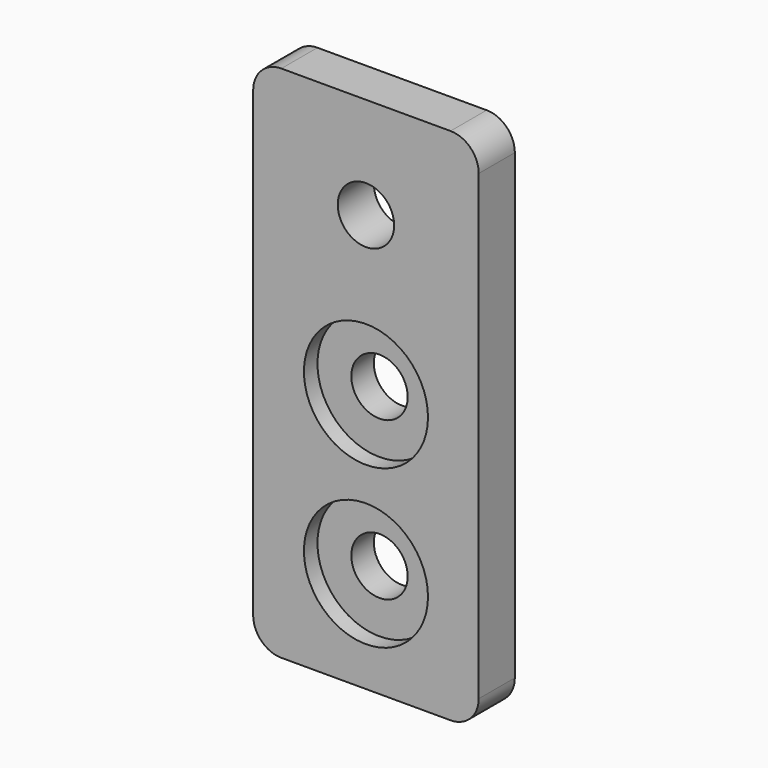
from build123d import *

# Parameters (mm, degrees)
F0_W     = 20
F0_H     = 46
F1_DEPTH = 4
F2_D     = 5
F3_R     = 5.5
F4_DEPTH = 1.5
F5_R     = 2.5


with BuildPart() as f1:
    # F0 (on Front) → F1 (new body)
    with BuildSketch(Plane.XZ):
        Rectangle(F0_W, F0_H)
    extrude(amount=F1_DEPTH)

    # F2 (through all)
    with Locations(Plane(origin=(0, 0, 0), x_dir=(1, 0, 0), z_dir=(0, 1, 0))):
        with Locations((0, 14), (0, 0), (0, -14)):
            Hole(F2_D / 2)

    # F3 (on face) → F4 (cut)
    with BuildSketch(Plane.XZ.offset(4)):
        Circle(F3_R)
        with Locations((0, -14)):
            Circle(F3_R)
    extrude(amount=-F4_DEPTH, mode=Mode.SUBTRACT)

    # F5
    f5_edges = [f1.edges().sort_by_distance(p)[0] for p in [
        (10, -2, 23),
        (-10, -2, 23),
        (10, -2, -23),
        (-10, -2, -23),
    ]]
    fillet(f5_edges, radius=F5_R)


solid = f1.part
